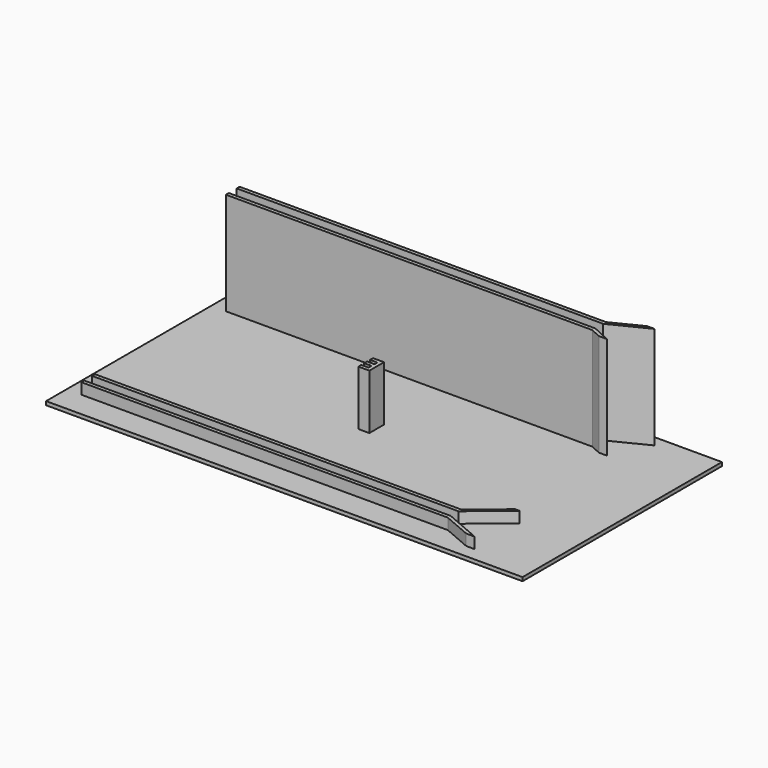
from build123d import *

# Parameters (mm, degrees)
SKETCH_W     = 130
SKETCH_H     = 68
PAD_DEPTH    = 1
SKETCH001_W  = 100
SKETCH001_H  = 1
PAD001_DEPTH = 28
SKETCH002_W  = 100
SKETCH002_H  = 1
PAD002_DEPTH = 28
PAD003_DEPTH = 28
SKETCH004_W  = 100
SKETCH004_H  = 2.7
PAD004_DEPTH = 25
SKETCH005_W  = 100
SKETCH005_H  = 1
PAD005_DEPTH = 3
SKETCH006_W  = 100
SKETCH006_H  = 1
PAD006_DEPTH = 3
PAD007_DEPTH = 3
PAD008_DEPTH = 15


with BuildPart() as part:
    # Sketch → Pad (new body)
    with BuildSketch(Plane.XY):
        with Locations((65, 34)):
            Rectangle(SKETCH_W, SKETCH_H)
    extrude(amount=-PAD_DEPTH)

    # Sketch001 → Pad001 (join)
    with BuildSketch(Plane.XY):
        with Locations((54, 56.8)):
            Rectangle(SKETCH001_W, SKETCH001_H)
    extrude(amount=PAD001_DEPTH)

    # Sketch002 → Pad002 (join)
    with BuildSketch(Plane.XY):
        with Locations((54, 60.5)):
            Rectangle(SKETCH002_W, SKETCH002_H)
    extrude(amount=PAD002_DEPTH)

    # Sketch003 → Pad003 (join)
    with BuildSketch(Plane.XY):
        Polygon((104, 61), (112, 65), (114, 65), (104, 60), align=None)
        Polygon((104, 57.3), (109, 55), (106.826087, 55), (104, 56.3), align=None)
    extrude(amount=PAD003_DEPTH)

    # Sketch004 → Pad004 (join)
    with BuildSketch(Plane.XY):
        with Locations((54, 58.65)):
            Rectangle(SKETCH004_W, SKETCH004_H)
    extrude(amount=PAD004_DEPTH)

    # Sketch005 → Pad005 (join)
    with BuildSketch(Plane.XY):
        with Locations((54, 7.5)):
            Rectangle(SKETCH005_W, SKETCH005_H)
    extrude(amount=PAD005_DEPTH)

    # Sketch006 → Pad006 (join)
    with BuildSketch(Plane.XY):
        with Locations((54, 11.2)):
            Rectangle(SKETCH006_W, SKETCH006_H)
    extrude(amount=PAD006_DEPTH)

    # Sketch007 → Pad007 (join)
    with BuildSketch(Plane.XY):
        Polygon((104, 10.7), (114, 19), (112.795181, 19), (104, 11.7), align=None)
        Polygon((104, 8), (114, 3.7), (111.674419, 3.7), (104, 7), align=None)
    extrude(amount=PAD007_DEPTH)

    # Sketch008 → Pad008 (join)
    with BuildSketch(Plane.XY):
        Polygon((60, 36.5), (63, 36.5), (63, 31.5), (60, 31.5), (60, 32.5), (62, 32.5), (62, 33.5), (60, 33.5), (60, 34.5), (62, 34.5), (62, 35.5), (60, 35.5), align=None)
    extrude(amount=PAD008_DEPTH)


solid = part.part
